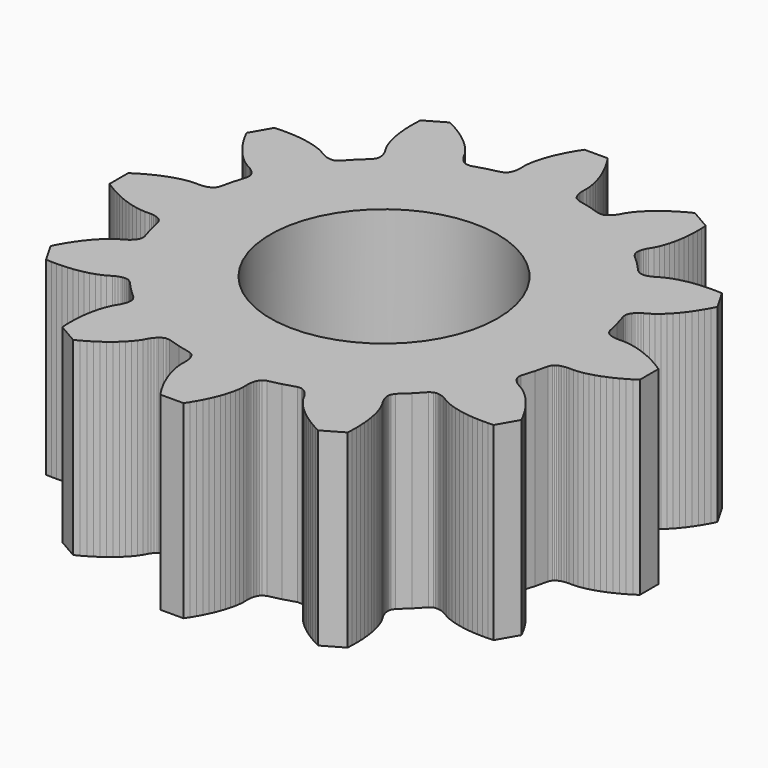
from build123d import *

# Parameters (mm, degrees)
F0_R     = 3
F1_DEPTH = 5


with BuildPart() as f1:
    # F0 (on Top) → F1 (new body)
    with BuildSketch(Plane.XY):
        Polygon((5.19246, 0.93314), (5.14568, 1.02272), (5.06756, 1.35785), (4.96765, 1.68713), (4.96337, 1.7881), (4.97811, 1.83329), (4.99622, 1.86871), (5.0162, 1.89886), (5.03743, 1.92547), (5.05962, 1.94946), (5.10616, 1.99161), (5.15492, 2.02786), (5.20543, 2.05956), (5.30909, 2.11618), (5.40835, 2.18365), (5.50358, 2.26068), (5.59534, 2.34545), (5.68385, 2.43703), (5.76922, 2.53482), (5.85145, 2.63839), (5.93053, 2.74742), (6.0064, 2.86164), (6.07901, 2.98083), (6.14827, 3.1048), (6.21412, 3.23335), (5.90723, 3.76491), (5.76297, 3.77216), (5.62098, 3.77415), (5.48146, 3.77087), (5.3446, 3.76227), (5.21064, 3.7483), (5.07983, 3.72888), (4.95246, 3.70384), (4.82889, 3.67297), (4.7096, 3.63589), (4.59527, 3.59195), (4.48721, 3.53972), (4.38634, 3.47825), (4.33363, 3.45036), (4.27786, 3.42626), (4.2181, 3.40703), (4.18622, 3.39981), (4.15256, 3.39472), (4.11647, 3.39249), (4.07673, 3.39452), (4.03023, 3.40435), (3.94492, 3.45854), (3.70971, 3.70971), (3.45854, 3.94492), (3.40435, 4.03023), (3.39452, 4.07673), (3.39249, 4.11647), (3.39472, 4.15256), (3.39981, 4.18622), (3.40703, 4.2181), (3.42626, 4.27786), (3.45036, 4.33363), (3.47825, 4.38634), (3.53972, 4.48721), (3.59195, 4.59527), (3.63589, 4.7096), (3.67297, 4.82889), (3.70384, 4.95246), (3.72888, 5.07983), (3.7483, 5.21064), (3.76227, 5.3446), (3.77087, 5.48146), (3.77415, 5.62098), (3.77216, 5.76297), (3.76491, 5.90723), (3.23335, 6.21412), (3.1048, 6.14827), (2.98083, 6.07901), (2.86164, 6.0064), (2.74742, 5.93053), (2.63839, 5.85145), (2.53482, 5.76922), (2.43703, 5.68385), (2.34545, 5.59534), (2.26068, 5.50358), (2.18365, 5.40835), (2.11618, 5.30909), (2.05956, 5.20543), (2.02786, 5.15492), (1.99161, 5.10616), (1.94946, 5.05962), (1.92547, 5.03743), (1.89886, 5.0162), (1.86871, 4.99622), (1.83329, 4.97811), (1.7881, 4.96337), (1.68713, 4.96765), (1.35785, 5.06756), (1.02272, 5.14568), (0.93314, 5.19246), (0.90137, 5.22781), (0.87975, 5.26121), (0.86364, 5.29358), (0.85121, 5.32528), (0.84152, 5.35649), (0.82829, 5.41787), (0.82128, 5.47822), (0.81908, 5.53781), (0.82188, 5.6559), (0.81308, 5.7756), (0.79398, 5.89658), (0.76644, 6.01843), (0.73139, 6.14088), (0.68938, 6.2637), (0.6408, 6.3867), (0.58592, 6.5097), (0.52494, 6.63252), (0.45802, 6.75499), (0.3853, 6.87696), (0.30689, 6.99827), (-0.3069, 6.99827), (-0.38531, 6.87696), (-0.45803, 6.75499), (-0.52495, 6.63252), (-0.58593, 6.5097), (-0.64081, 6.3867), (-0.68939, 6.2637), (-0.7314, 6.14088), (-0.76645, 6.01843), (-0.79398, 5.89658), (-0.81309, 5.7756), (-0.82189, 5.6559), (-0.81909, 5.53781), (-0.82129, 5.47822), (-0.8283, 5.41787), (-0.84153, 5.35649), (-0.85122, 5.32528), (-0.86364, 5.29358), (-0.87976, 5.26121), (-0.90138, 5.22781), (-0.93315, 5.19246), (-1.02273, 5.14568), (-1.35786, 5.06756), (-1.68714, 4.96765), (-1.78811, 4.96337), (-1.8333, 4.97811), (-1.86872, 4.99622), (-1.89886, 5.0162), (-1.92548, 5.03743), (-1.94947, 5.05962), (-1.99162, 5.10616), (-2.02787, 5.15492), (-2.05957, 5.20543), (-2.11619, 5.30909), (-2.18366, 5.40835), (-2.26069, 5.50358), (-2.34546, 5.59534), (-2.43704, 5.68385), (-2.53483, 5.76922), (-2.6384, 5.85145), (-2.74743, 5.93053), (-2.86165, 6.0064), (-2.98084, 6.07901), (-3.1048, 6.14827), (-3.23336, 6.21412), (-3.76492, 5.90723), (-3.77217, 5.76297), (-3.77416, 5.62098), (-3.77088, 5.48146), (-3.76228, 5.3446), (-3.74831, 5.21064), (-3.72889, 5.07983), (-3.70385, 4.95246), (-3.67298, 4.82889), (-3.6359, 4.7096), (-3.59195, 4.59527), (-3.53973, 4.48721), (-3.47826, 4.38634), (-3.45037, 4.33363), (-3.42626, 4.27786), (-3.40703, 4.2181), (-3.39982, 4.18622), (-3.39473, 4.15256), (-3.3925, 4.11647), (-3.39453, 4.07673), (-3.40436, 4.03023), (-3.45855, 3.94492), (-3.70972, 3.70971), (-3.94493, 3.45854), (-4.03024, 3.40435), (-4.07674, 3.39452), (-4.11648, 3.39249), (-4.15257, 3.39472), (-4.18623, 3.39981), (-4.21811, 3.40703), (-4.27787, 3.42626), (-4.33364, 3.45036), (-4.38635, 3.47825), (-4.48722, 3.53972), (-4.59528, 3.59195), (-4.7096, 3.63589), (-4.8289, 3.67297), (-4.95247, 3.70384), (-5.07984, 3.72888), (-5.21065, 3.7483), (-5.34461, 3.76227), (-5.48147, 3.77087), (-5.62099, 3.77415), (-5.76298, 3.77216), (-5.90724, 3.76491), (-6.21413, 3.23335), (-6.14828, 3.1048), (-6.07902, 2.98083), (-6.00641, 2.86164), (-5.93053, 2.74742), (-5.85146, 2.63839), (-5.76923, 2.53482), (-5.68386, 2.43703), (-5.59534, 2.34545), (-5.50358, 2.26068), (-5.40836, 2.18365), (-5.3091, 2.11618), (-5.20544, 2.05956), (-5.15492, 2.02786), (-5.10617, 1.99161), (-5.05963, 1.94946), (-5.03744, 1.92547), (-5.01621, 1.89886), (-4.99623, 1.86871), (-4.97811, 1.83329), (-4.96338, 1.7881), (-4.96766, 1.68713), (-5.06757, 1.35785), (-5.14568, 1.02272), (-5.19247, 0.93314), (-5.22782, 0.90137), (-5.26122, 0.87975), (-5.29359, 0.86364), (-5.32529, 0.85121), (-5.3565, 0.84152), (-5.41787, 0.82829), (-5.47823, 0.82128), (-5.53782, 0.81908), (-5.65591, 0.82188), (-5.77561, 0.81308), (-5.89659, 0.79398), (-6.01844, 0.76644), (-6.14089, 0.73139), (-6.26371, 0.68938), (-6.38671, 0.6408), (-6.50971, 0.58592), (-6.63253, 0.52494), (-6.755, 0.45802), (-6.87697, 0.3853), (-6.99827, 0.30689), (-6.99827, -0.3069), (-6.87697, -0.38531), (-6.755, -0.45803), (-6.63253, -0.52495), (-6.50971, -0.58593), (-6.38671, -0.64081), (-6.26371, -0.68939), (-6.14089, -0.7314), (-6.01844, -0.76645), (-5.89659, -0.79398), (-5.77561, -0.81309), (-5.65591, -0.82189), (-5.53782, -0.81909), (-5.47823, -0.82129), (-5.41787, -0.8283), (-5.3565, -0.84153), (-5.32529, -0.85122), (-5.29359, -0.86364), (-5.26122, -0.87976), (-5.22782, -0.90138), (-5.19247, -0.93315), (-5.14568, -1.02273), (-5.06757, -1.35786), (-4.96766, -1.68714), (-4.96338, -1.78811), (-4.97811, -1.8333), (-4.99623, -1.86872), (-5.01621, -1.89886), (-5.03744, -1.92548), (-5.05963, -1.94947), (-5.10617, -1.99162), (-5.15492, -2.02787), (-5.20544, -2.05957), (-5.3091, -2.11619), (-5.40836, -2.18366), (-5.50358, -2.26069), (-5.59534, -2.34546), (-5.68386, -2.43704), (-5.76923, -2.53483), (-5.85146, -2.6384), (-5.93053, -2.74743), (-6.00641, -2.86165), (-6.07902, -2.98084), (-6.14828, -3.1048), (-6.21413, -3.23336), (-5.90724, -3.76492), (-5.76298, -3.77217), (-5.62099, -3.77416), (-5.48147, -3.77088), (-5.34461, -3.76228), (-5.21065, -3.74831), (-5.07984, -3.72889), (-4.95247, -3.70385), (-4.8289, -3.67298), (-4.7096, -3.6359), (-4.59528, -3.59195), (-4.48722, -3.53973), (-4.38635, -3.47826), (-4.33364, -3.45037), (-4.27787, -3.42626), (-4.21811, -3.40703), (-4.18623, -3.39982), (-4.15257, -3.39473), (-4.11648, -3.3925), (-4.07674, -3.39453), (-4.03024, -3.40436), (-3.94493, -3.45855), (-3.70972, -3.70972), (-3.45855, -3.94493), (-3.40436, -4.03024), (-3.39453, -4.07674), (-3.3925, -4.11648), (-3.39473, -4.15257), (-3.39982, -4.18623), (-3.40703, -4.21811), (-3.42626, -4.27787), (-3.45037, -4.33364), (-3.47826, -4.38635), (-3.53973, -4.48722), (-3.59195, -4.59528), (-3.6359, -4.7096), (-3.67298, -4.8289), (-3.70385, -4.95247), (-3.72889, -5.07984), (-3.74831, -5.21065), (-3.76228, -5.34461), (-3.77088, -5.48147), (-3.77416, -5.62099), (-3.77217, -5.76298), (-3.76492, -5.90724), (-3.23336, -6.21413), (-3.1048, -6.14828), (-2.98084, -6.07902), (-2.86165, -6.00641), (-2.74743, -5.93053), (-2.6384, -5.85146), (-2.53483, -5.76923), (-2.43704, -5.68386), (-2.34546, -5.59534), (-2.26069, -5.50358), (-2.18366, -5.40836), (-2.11619, -5.3091), (-2.05957, -5.20544), (-2.02787, -5.15492), (-1.99162, -5.10617), (-1.94947, -5.05963), (-1.92548, -5.03744), (-1.89886, -5.01621), (-1.86872, -4.99623), (-1.8333, -4.97811), (-1.78811, -4.96338), (-1.68714, -4.96766), (-1.35786, -5.06757), (-1.02273, -5.14568), (-0.93315, -5.19247), (-0.90138, -5.22782), (-0.87976, -5.26122), (-0.86364, -5.29359), (-0.85122, -5.32529), (-0.84153, -5.3565), (-0.8283, -5.41787), (-0.82129, -5.47823), (-0.81909, -5.53782), (-0.82189, -5.65591), (-0.81309, -5.77561), (-0.79398, -5.89659), (-0.76645, -6.01844), (-0.7314, -6.14089), (-0.68939, -6.26371), (-0.64081, -6.38671), (-0.58593, -6.50971), (-0.52495, -6.63253), (-0.45803, -6.755), (-0.38531, -6.87697), (-0.3069, -6.99827), (0.30689, -6.99827), (0.3853, -6.87697), (0.45802, -6.755), (0.52494, -6.63253), (0.58592, -6.50971), (0.6408, -6.38671), (0.68938, -6.26371), (0.73139, -6.14089), (0.76644, -6.01844), (0.79398, -5.89659), (0.81308, -5.77561), (0.82188, -5.65591), (0.81908, -5.53782), (0.82128, -5.47823), (0.82829, -5.41787), (0.84152, -5.3565), (0.85121, -5.32529), (0.86364, -5.29359), (0.87975, -5.26122), (0.90137, -5.22782), (0.93314, -5.19247), (1.02272, -5.14568), (1.35785, -5.06757), (1.68713, -4.96766), (1.7881, -4.96338), (1.83329, -4.97811), (1.86871, -4.99623), (1.89886, -5.01621), (1.92547, -5.03744), (1.94946, -5.05963), (1.99161, -5.10617), (2.02786, -5.15492), (2.05956, -5.20544), (2.11618, -5.3091), (2.18365, -5.40836), (2.26068, -5.50358), (2.34545, -5.59534), (2.43703, -5.68386), (2.53482, -5.76923), (2.63839, -5.85146), (2.74742, -5.93053), (2.86164, -6.00641), (2.98083, -6.07902), (3.1048, -6.14828), (3.23335, -6.21413), (3.76491, -5.90724), (3.77216, -5.76298), (3.77415, -5.62099), (3.77087, -5.48147), (3.76227, -5.34461), (3.7483, -5.21065), (3.72888, -5.07984), (3.70384, -4.95247), (3.67297, -4.8289), (3.63589, -4.7096), (3.59195, -4.59528), (3.53972, -4.48722), (3.47825, -4.38635), (3.45036, -4.33364), (3.42626, -4.27787), (3.40703, -4.21811), (3.39981, -4.18623), (3.39472, -4.15257), (3.39249, -4.11648), (3.39452, -4.07674), (3.40435, -4.03024), (3.45854, -3.94493), (3.70971, -3.70972), (3.94492, -3.45855), (4.03023, -3.40436), (4.07673, -3.39453), (4.11647, -3.3925), (4.15256, -3.39473), (4.18622, -3.39982), (4.2181, -3.40703), (4.27786, -3.42626), (4.33363, -3.45037), (4.38634, -3.47826), (4.48721, -3.53973), (4.59527, -3.59195), (4.7096, -3.6359), (4.82889, -3.67298), (4.95246, -3.70385), (5.07983, -3.72889), (5.21064, -3.74831), (5.3446, -3.76228), (5.48146, -3.77088), (5.62098, -3.77416), (5.76297, -3.77217), (5.90723, -3.76492), (6.21412, -3.23336), (6.14827, -3.1048), (6.07901, -2.98084), (6.0064, -2.86165), (5.93053, -2.74743), (5.85145, -2.6384), (5.76922, -2.53483), (5.68385, -2.43704), (5.59534, -2.34546), (5.50358, -2.26069), (5.40835, -2.18366), (5.30909, -2.11619), (5.20543, -2.05957), (5.15492, -2.02787), (5.10616, -1.99162), (5.05962, -1.94947), (5.03743, -1.92548), (5.0162, -1.89886), (4.99622, -1.86872), (4.97811, -1.8333), (4.96337, -1.78811), (4.96765, -1.68714), (5.06756, -1.35786), (5.14568, -1.02273), (5.19246, -0.93315), (5.22781, -0.90138), (5.26121, -0.87976), (5.29358, -0.86364), (5.32528, -0.85122), (5.35649, -0.84153), (5.41787, -0.8283), (5.47822, -0.82129), (5.53781, -0.81909), (5.6559, -0.82189), (5.7756, -0.81309), (5.89658, -0.79398), (6.01843, -0.76645), (6.14088, -0.7314), (6.2637, -0.68939), (6.3867, -0.64081), (6.5097, -0.58593), (6.63252, -0.52495), (6.75499, -0.45803), (6.87696, -0.38531), (6.99827, -0.3069), (6.99827, 0.30689), (6.87696, 0.3853), (6.75499, 0.45802), (6.63252, 0.52494), (6.5097, 0.58592), (6.3867, 0.6408), (6.2637, 0.68938), (6.14088, 0.73139), (6.01843, 0.76644), (5.89658, 0.79398), (5.7756, 0.81308), (5.6559, 0.82188), (5.53781, 0.81908), (5.47822, 0.82128), (5.41787, 0.82829), (5.35649, 0.84152), (5.32528, 0.85121), (5.29358, 0.86364), (5.26121, 0.87975), (5.22781, 0.90137), align=None)
        Circle(F0_R, mode=Mode.SUBTRACT)
    extrude(amount=F1_DEPTH)


solid = f1.part
